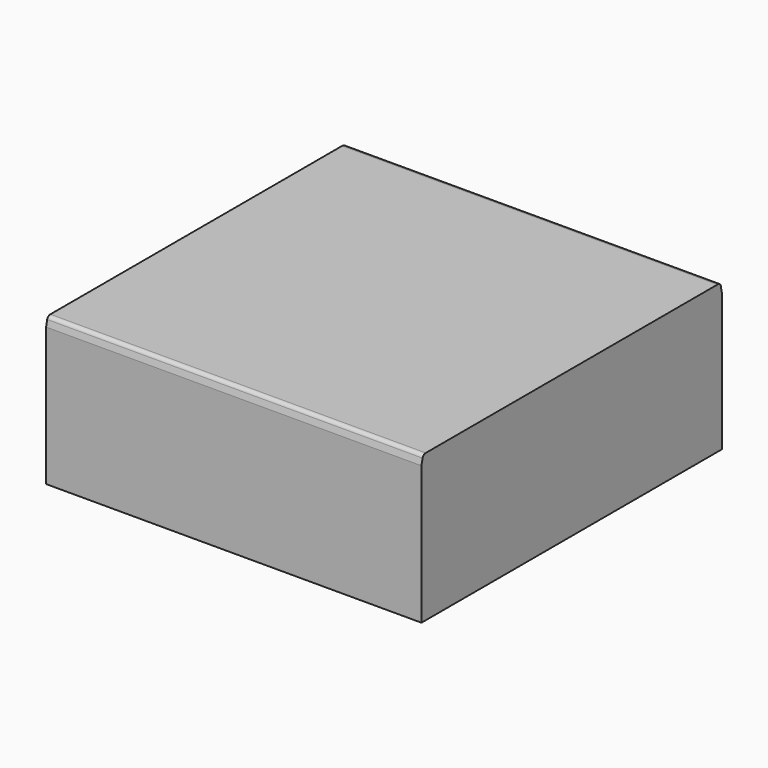
from build123d import *

# Parameters (mm, degrees)
PAD_DEPTH = 1980


with BuildPart() as part:
    # Sketch → Pad (new body)
    with BuildSketch(Plane.YZ):
        with BuildLine():
            Line((1058.18335, 310.926636), (1051.75415, 340.95297))
            ThreePointArc((1051.75415, 340.95297), (1045.602412, 357.51433), (1028.792586, 362.950531))
            Line((1028.792586, 362.950531), (-894.468415, 362.950531))
            ThreePointArc((-894.468415, 362.950531), (-907.779158, 358.899155), (-915.586365, 347.38234))
            Line((-922.933655, 315.235718), (-915.586365, 347.38234))
            Line((-922.933655, 315.235718), (-922.933655, -414.020752))
            Line((166.359161, -414.020752), (-922.933655, -414.020752))
            Line((166.359161, -414.020752), (1058.18335, -414.020752))
            Line((1058.18335, 310.926636), (1058.18335, -414.020752))
        make_face()
    extrude(amount=-PAD_DEPTH)


solid = part.part
